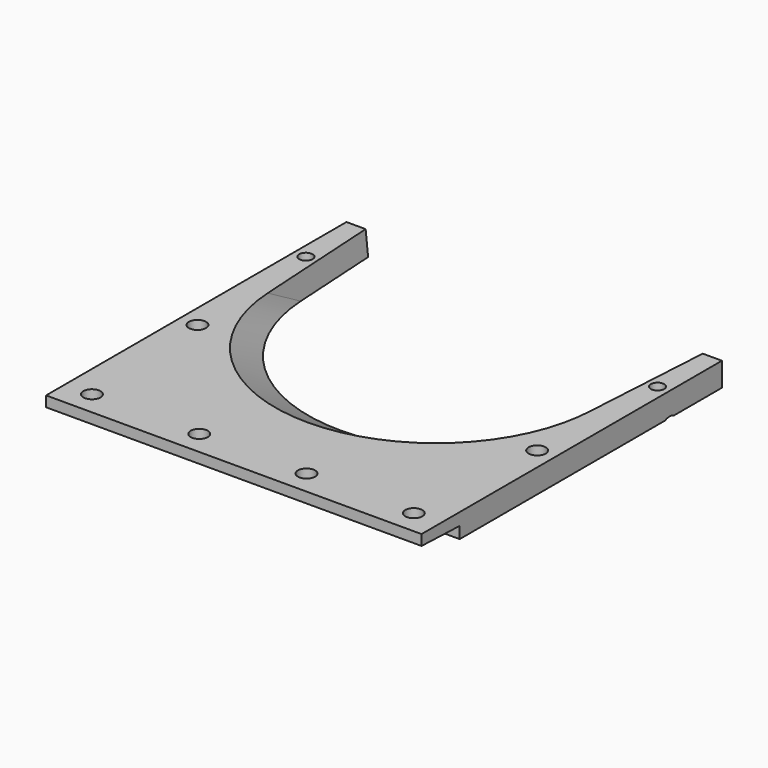
from build123d import *

# Parameters (mm, degrees)
F0_W           = 200.025
F0_H           = 200.025
F1_DEPTH       = 12.7
F4_DEPTH       = 230.886
F5_R           = 4.56438
F6_DEPTH       = 25.4
F8_D           = 9.128125
F8_CSINK_D     = 17.78
F8_CSINK_ANGLE = 82
F9_D           = 7.14375
F9_CSINK_D     = 13.97
F9_CSINK_ANGLE = 82


with BuildPart() as f1:
    # F0 (on Top) → F1 (new body)
    with BuildSketch(Plane.XY):
        Rectangle(F0_W, F0_H)
    extrude(amount=F1_DEPTH)

    # F3 (on face) → F4 (cut)
    with BuildSketch(Plane(origin=(-100.0125, 0, 0), x_dir=(0, -1, 0), z_dir=(-1, 0, 0))):
        Polygon((100.0125, 0), (100.0125, 7.112), (74.6125, 6.2250124549), (74.6125, 0), align=None)
    extrude(amount=-F4_DEPTH, mode=Mode.SUBTRACT)

    # F5 (on face) → F6 (cut)
    with BuildSketch(Plane.XY.offset(12.7)):
        with Locations((-85.725, -87.3125)):
            Circle(F5_R)
        with Locations((-28.575, -87.3125)):
            Circle(F5_R)
        with Locations((28.575, -87.3125)):
            Circle(F5_R)
        with Locations((85.725, -87.3125)):
            Circle(F5_R)
    extrude(amount=-F6_DEPTH, mode=Mode.SUBTRACT)

    # F8 (through all)
    with Locations(Plane(origin=(0, 0, 0), x_dir=(1, 0, 0), z_dir=(0, 0, -1))):
        with Locations((90.4875, 11.1125), (-90.4875, 11.1125)):
            CounterSinkHole(F8_D / 2, F8_CSINK_D / 2, counter_sink_angle=F8_CSINK_ANGLE)

    # F9 (through all)
    with Locations(Plane(origin=(0, 0, 0), x_dir=(1, 0, 0), z_dir=(0, 0, -1))):
        with Locations((93.6625, -65.0875), (-93.6625, -65.0875)):
            CounterSinkHole(F9_D / 2, F9_CSINK_D / 2, counter_sink_angle=F9_CSINK_ANGLE)

    # F12: sweep along a path in F11
    with BuildLine(Plane.YZ) as f12_path:
        Line((113.8857394209, -82.55), (-216.0699394209, 107.95))
    # F10 (on face) → F12 (sweep, cut)
    with BuildSketch(Plane.XY.offset(12.7)):
        with BuildLine():
            Line((85.5720480425, 29.5142850698), (89.789, 100.0125))
            Line((89.789, 100.0125), (-89.789, 100.0125))
            Line((-89.789, 100.0125), (-85.5720480425, 29.5142850698))
            ThreePointArc((-85.5720480425, 29.5142850698), (0, -51.0921), (85.5720480425, 29.5142850698))
        make_face()
    sweep(path=f12_path.line, mode=Mode.SUBTRACT)


solid = f1.part
